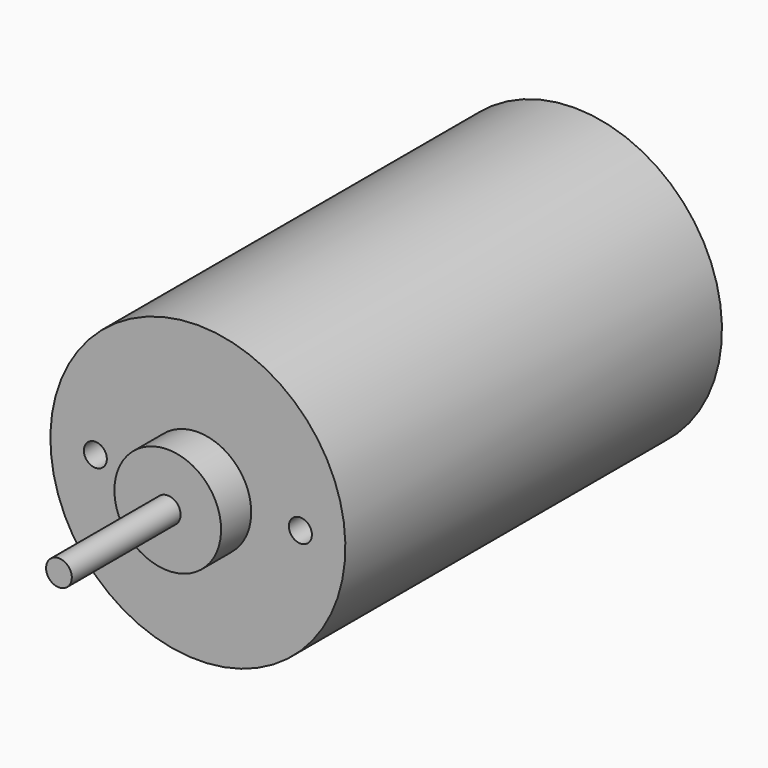
from build123d import *

# Parameters (mm, degrees)
F2_R     = 1.397
F3_DEPTH = 6.35


with BuildPart() as f1:
    # F0 (on Right) → F1 (revolve)
    with BuildSketch(Plane.YZ):
        Polygon((-74.35899, -3.777042), (3.87301, -3.777042), (3.87301, 14.129958), (-53.27699, 14.129958), (-53.27699, 2.699958), (-57.84899, 2.699958), (-57.84899, -2.214942), (-74.35899, -2.214942), align=None)
    revolve(axis=Axis((0, -35.24299, -3.777042), (0, -1, 0)))

    # F2 (on face) → F3 (cut)
    with BuildSketch(Plane.XZ.offset(53.27699)):
        with Locations((12.446, -3.777042)):
            Circle(F2_R)
        with Locations((-12.446, -3.777042)):
            Circle(F2_R)
    extrude(amount=-F3_DEPTH, mode=Mode.SUBTRACT)


solid = f1.part
